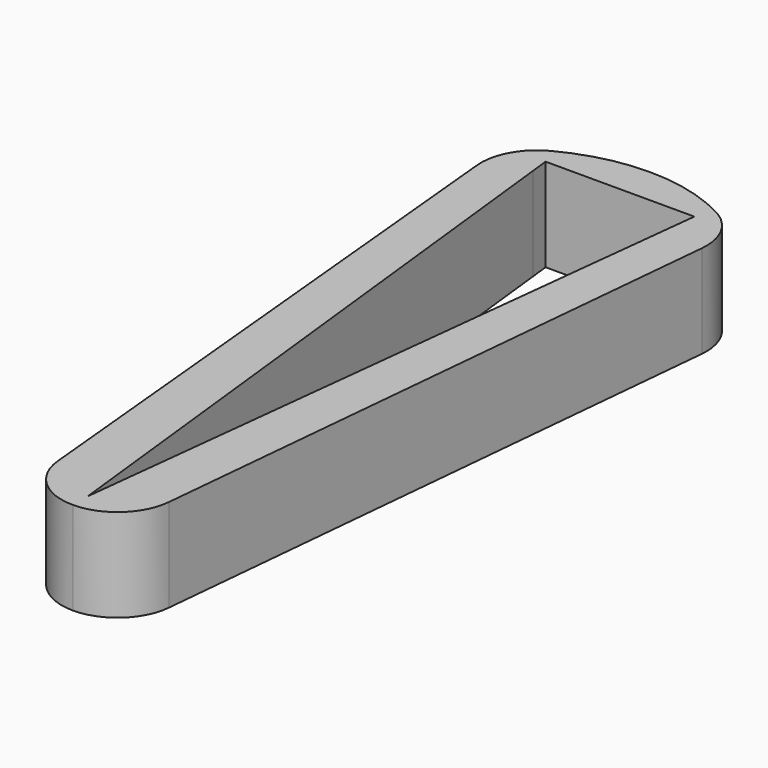
from build123d import *

# Parameters (mm, degrees)
F1_DEPTH = 25


with BuildPart() as f1:
    # F0 (on Top) → F1 (new body)
    with BuildSketch(Plane.XY):
        with BuildLine():
            ThreePointArc((-19.444444, 32.53096), (-24.775722, 36.019298), (-22.352941, 41.911765))
            ThreePointArc((-22.352941, 41.911765), (-28.509374, 35.772737), (-30.226108, 27.2497))
            Line((-30.226108, 27.2497), (-14.93199, -132.812209))
            ThreePointArc((-14.93199, -132.812209), (-10.08956, -142.485023), (0, -146.385438))
            ThreePointArc((0, -146.385438), (-4.992254, -141.663647), (-0.555556, -136.416398))
            Line((-0.555556, -136.416398), (-19.444444, 32.53096))
        make_face()
        with BuildLine():
            ThreePointArc((30.226108, 27.2497), (28.509374, 35.772737), (22.352941, 41.911765))
            ThreePointArc((22.352941, 41.911765), (24.287465, 40.072479), (25, 37.5))
            ThreePointArc((25, 37.5), (23.333333, 33.77322), (19.444444, 32.53096))
            Line((19.444444, 32.53096), (0.555556, -136.416398))
            ThreePointArc((0.555556, -136.416398), (3.72678, -138.052105), (5, -141.385438))
            ThreePointArc((5, -141.385438), (3.535534, -144.920972), (0, -146.385438))
            ThreePointArc((0, -146.385438), (10.08956, -142.485023), (14.93199, -132.812209))
            Line((14.93199, -132.812209), (30.226108, 27.2497))
        make_face()
        with BuildLine():
            Line((0, -141.385438), (-0.555556, -136.416398))
            ThreePointArc((-0.555556, -136.416398), (-4.992254, -141.663647), (0, -146.385438))
            ThreePointArc((0, -146.385438), (3.535534, -144.920972), (5, -141.385438))
            ThreePointArc((5, -141.385438), (3.72678, -138.052105), (0.555556, -136.416398))
            Line((0.555556, -136.416398), (0, -141.385438))
        make_face()
        with BuildLine():
            ThreePointArc((-22.352941, 41.911765), (-17.427521, 41.787465), (-15, 37.5))
            Line((-15, 37.5), (0, 37.5))
            Line((0, 37.5), (0, 47.5))
            ThreePointArc((0, 47.5), (-11.520442, 46.081769), (-22.352941, 41.911765))
        make_face()
        with BuildLine():
            Line((0, 47.5), (0, 37.5))
            Line((0, 37.5), (15, 37.5))
            ThreePointArc((15, 37.5), (17.427521, 41.787465), (22.352941, 41.911765))
            ThreePointArc((22.352941, 41.911765), (11.520442, 46.081769), (0, 47.5))
        make_face()
        with BuildLine():
            ThreePointArc((22.352941, 41.911765), (17.427521, 41.787465), (15, 37.5))
            Line((15, 37.5), (20, 37.5))
            Line((20, 37.5), (19.444444, 32.53096))
            ThreePointArc((19.444444, 32.53096), (23.333333, 33.77322), (25, 37.5))
            ThreePointArc((25, 37.5), (24.287465, 40.072479), (22.352941, 41.911765))
        make_face()
        with BuildLine():
            Line((-20, 37.5), (-15, 37.5))
            ThreePointArc((-15, 37.5), (-17.427521, 41.787465), (-22.352941, 41.911765))
            ThreePointArc((-22.352941, 41.911765), (-24.775722, 36.019298), (-19.444444, 32.53096))
            Line((-19.444444, 32.53096), (-20, 37.5))
        make_face()
    extrude(amount=F1_DEPTH)


solid = f1.part
